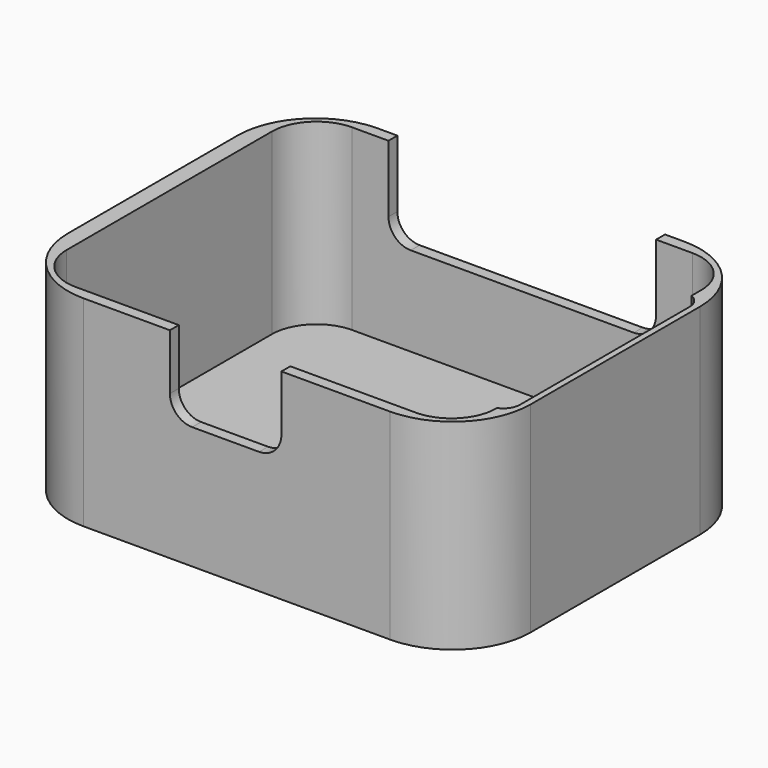
from build123d import *

# Parameters (mm, degrees)
PAD_DEPTH       = 18
POCKET_DEPTH    = 16
POCKET001_DEPTH = 5
POCKET002_DEPTH = 5
POCKET003_DEPTH = 4


with BuildPart() as part:
    # Sketch → Pad (new body)
    with BuildSketch(Plane.XY):
        with BuildLine():
            Line((-13.75, -16.5), (13.75, -16.5))
            ThreePointArc((13.75, -16.5), (18.699747, -14.449747), (20.75, -9.5))
            Line((20.75, -9.5), (20.75, 9.5))
            ThreePointArc((20.75, 9.5), (18.699747, 14.449747), (13.75, 16.5))
            Line((13.75, 16.5), (-13.75, 16.5))
            ThreePointArc((-13.75, 16.5), (-18.699747, 14.449747), (-20.75, 9.5))
            Line((-20.75, 9.5), (-20.75, -9.5))
            ThreePointArc((-20.75, -9.5), (-18.699747, -14.449747), (-13.75, -16.5))
        make_face()
    extrude(amount=PAD_DEPTH)

    # Sketch001 (on Face10 of Pad) → Pocket (cut)
    with BuildSketch(Plane.XY.offset(18)):
        with BuildLine():
            Line((-19.25, 11.5), (-19.25, -11.5))
            ThreePointArc((-19.25, -11.5), (-18.078427, -14.328427), (-15.25, -15.5))
            Line((-15.25, -15.5), (15.25, -15.5))
            ThreePointArc((15.25, -15.5), (18.078427, -14.328427), (19.25, -11.5))
            Line((19.25, -11.5), (19.25, 11.5))
            ThreePointArc((19.25, 11.5), (18.078427, 14.328427), (15.25, 15.5))
            Line((15.25, 15.5), (-15.25, 15.5))
            ThreePointArc((-15.25, 15.5), (-18.078427, 14.328427), (-19.25, 11.5))
        make_face()
    extrude(amount=-POCKET_DEPTH, mode=Mode.SUBTRACT)

    # Sketch002 (on Face1 of Pocket) → Pocket001 (cut)
    with BuildSketch(Plane.XZ.offset(16.5)):
        with BuildLine():
            Line((-6, 18), (-6, 13))
            ThreePointArc((-6, 13), (-5.414214, 11.585786), (-4, 11))
            Line((-4, 11), (2, 11))
            ThreePointArc((2, 11), (3.414214, 11.585786), (4, 13))
            Line((4, 13), (4, 18))
            ThreePointArc((4, 18), (3.414214, 19.414214), (2, 20))
            Line((2, 20), (-4, 20))
            ThreePointArc((-4, 20), (-5.414214, 19.414214), (-6, 18))
        make_face()
    extrude(amount=-POCKET001_DEPTH, mode=Mode.SUBTRACT)

    # Sketch003 (on Face13 of Pocket001) → Pocket002 (cut)
    with BuildSketch(Plane(origin=(0, 16.5, 0), x_dir=(-1, 0, 0), z_dir=(0, 1, 0))):
        with BuildLine():
            Line((-12, 18), (-12, 12))
            ThreePointArc((-12, 12), (-11.414214, 10.585786), (-10, 10))
            Line((-10, 10), (10, 10))
            ThreePointArc((10, 10), (11.414214, 10.585786), (12, 12))
            Line((12, 12), (12, 18))
            ThreePointArc((12, 18), (11.414214, 19.414214), (10, 20))
            Line((10, 20), (-10, 20))
            ThreePointArc((-10, 20), (-11.414214, 19.414214), (-12, 18))
        make_face()
    extrude(amount=-POCKET002_DEPTH, mode=Mode.SUBTRACT)

    # Sketch004 (on Face4 of Pocket002) → Pocket003 (cut)
    with BuildSketch(Plane.XY.offset(18)):
        with BuildLine():
            Line((15.2, 9), (15.2, -10))
            ThreePointArc((15.2, -10), (15.63934, -11.06066), (16.7, -11.5))
            Line((16.7, -11.5), (18.7, -11.5))
            ThreePointArc((18.7, -11.5), (19.76066, -11.06066), (20.2, -10))
            Line((20.2, -10), (20.2, 9))
            ThreePointArc((20.2, 9), (19.76066, 10.06066), (18.7, 10.5))
            Line((18.7, 10.5), (16.7, 10.5))
            ThreePointArc((16.7, 10.5), (15.63934, 10.06066), (15.2, 9))
        make_face()
    extrude(amount=-POCKET003_DEPTH, mode=Mode.SUBTRACT)


solid = part.part
